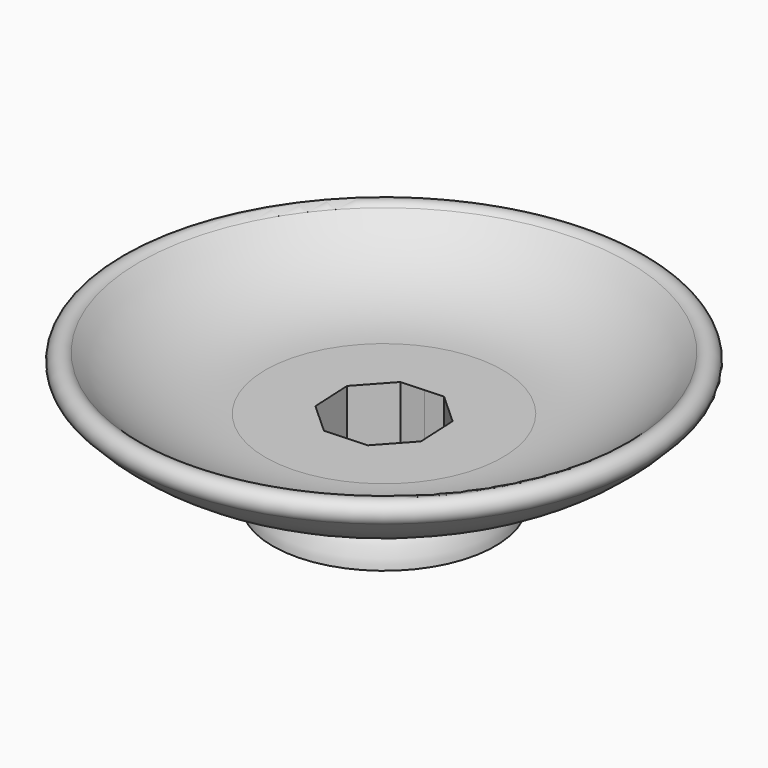
from build123d import *

# Parameters (mm, degrees)
F3_DEPTH = 70


with BuildPart() as f1:
    # F0 (on Front) → F1 (revolve)
    with BuildSketch(Plane.XZ):
        with BuildLine():
            Line((-42.002026, 0), (0, 0))
            Line((0, 0), (0, 15))
            Line((0, 15), (0, 39.974953))
            Line((0, 39.974953), (-74.000507, 39.974953))
            ThreePointArc((-74.000507, 39.974953), (-116.745039, 48.777444), (-152.53368, 73.75247))
            ThreePointArc((-152.53368, 73.75247), (-162.519697, 74.086901), (-162.983954, 64.106077))
            ThreePointArc((-162.983954, 64.106077), (-121.794736, 35.398971), (-72.147027, 27.932078))
            ThreePointArc((-72.147027, 27.932078), (-64.267757, 25.918768), (-59.28516, 19.491479))
            ThreePointArc((-59.28516, 19.491479), (-58.867771, 12.407832), (-62.151814, 6.117575))
            ThreePointArc((-62.151814, 6.117575), (-67.174605, -1.456209), (-69.46196, -10.251585))
            Line((-69.46196, -10.251585), (-54.46196, -10.251585))
            ThreePointArc((-54.46196, -10.251585), (-50.06963, -2.8923), (-42.002026, 0))
        make_face()
    revolve(axis=Axis((0, 0, 27.487477), (0, 0, -1)))

    # F2 (on face) → F3 (cut)
    with BuildSketch(Plane(origin=(0, 0, -10.251585), x_dir=(1, 0, 0), z_dir=(0, 0, -1))):
        Polygon((-11.591768, 32.361374), (-31.079564, 14.686329), (-32.361374, -11.591768), (-14.686329, -31.079564), (0, -31.795943), (11.591768, -32.361374), (31.079564, -14.686329), (32.361374, 11.591768), (14.686329, 31.079564), align=None)
    extrude(amount=-F3_DEPTH, mode=Mode.SUBTRACT)


solid = f1.part
